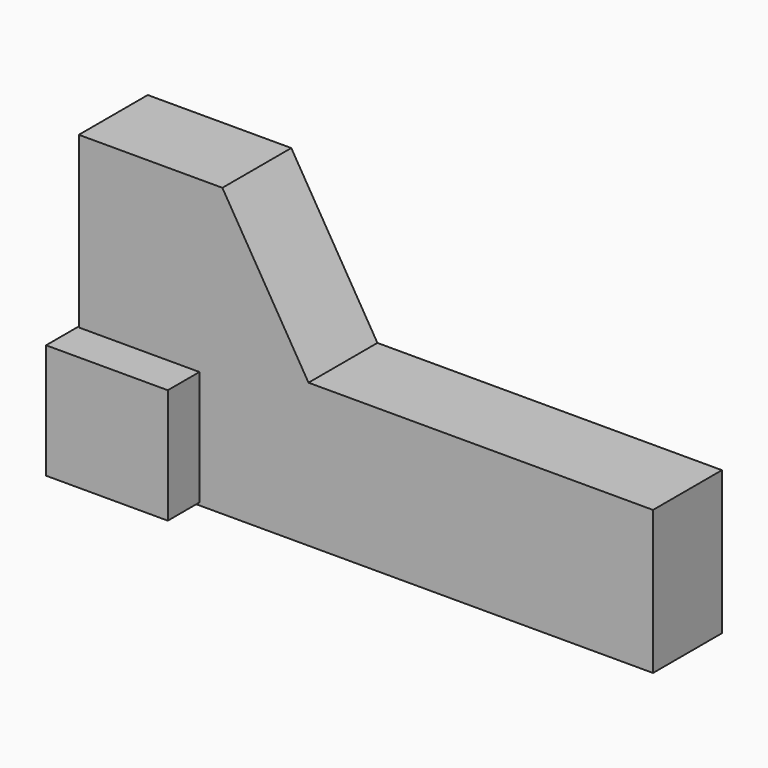
from build123d import *

# Parameters (mm, degrees)
F1_DEPTH = 19.05
F3_START = -44.45
F2_W     = 9.525
F2_H     = 25.4
F2_H_2   = 25.0668842345
F3_DEPTH = 26.924


with BuildPart() as f1:
    # F0 (on Front) → F1 (new body)
    with BuildSketch(Plane.XZ):
        Polygon((-71.1200013757, 17.3011439145), (-71.1200013757, -46.1988560855), (55.8799986243, -46.1988560855), (55.8799986243, -14.4488560855), (-20.3200013757, -14.4488560855), (-39.3700013757, 17.3011439145), align=None)
    extrude(amount=F1_DEPTH)

    # F2 (on Right) → F3 (join)
    with BuildSketch(Plane.YZ.offset(F3_START)):
        with Locations((-23.0265576392, -32.9159003079)):
            Rectangle(F2_W, F2_H)
        with Locations((4.7625, -32.7909840271)):
            Rectangle(F2_W, F2_H_2)
    extrude(amount=-F3_DEPTH)


solid = f1.part
